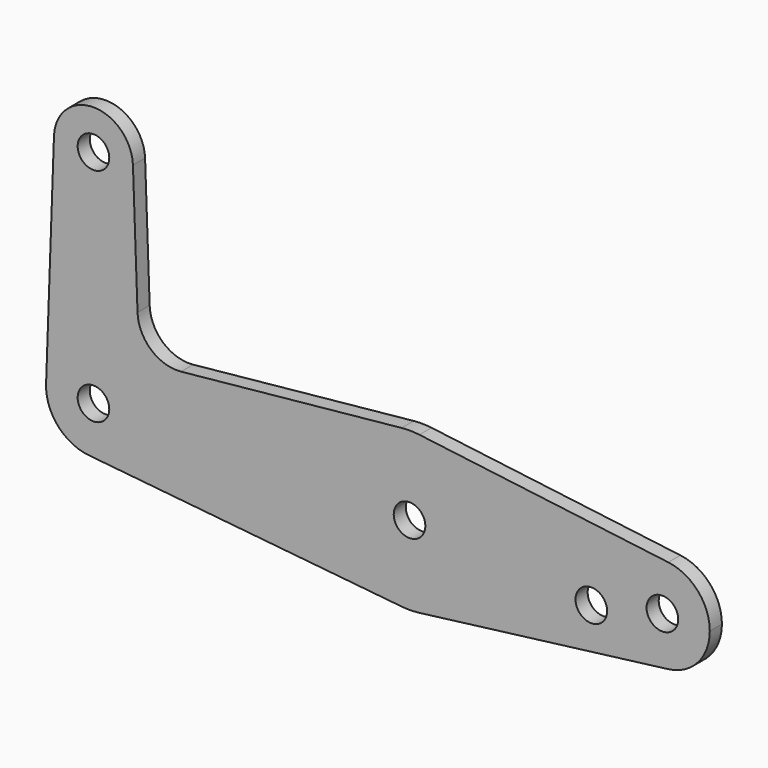
from build123d import *

# Parameters (mm, degrees)
F0_R     = 3.175
F1_DEPTH = 3.048


with BuildPart() as f1:
    # F0 (on Front) → F1 (new body)
    with BuildSketch(Plane.XZ):
        with BuildLine():
            ThreePointArc((-9.5189234376, 0.3401787603), (-7.1769199712, -6.2623833104), (-0.9525, -9.4772553384))
            ThreePointArc((-0.9525, -9.4772553384), (6.3895642457, -7.063929059), (9.525, 0))
            ThreePointArc((9.525, 0), (0.1701165142, 9.5234807382), (-9.5189234376, 0.3401787603))
        make_face()
        Circle(F0_R, mode=Mode.SUBTRACT)
        with BuildLine():
            ThreePointArc((9.525, 0), (6.3895642457, -7.063929059), (-0.9525, -9.4772553384))
            Line((-0.9525, -9.4772553384), (61.9125, -15.7954255641))
            ThreePointArc((61.9125, -15.7954255641), (51.7267849017, -10.6492737428), (47.625, 0))
            Line((47.625, 0), (9.525, 0))
        make_face()
        with BuildLine():
            ThreePointArc((-9.5189234376, 0.3401787603), (0.1701165142, 9.5234807382), (9.525, 0))
            Line((9.525, 0), (47.625, 0))
            ThreePointArc((47.625, 0), (51.7267849017, 10.6492737428), (61.9125, 15.7954255641))
            Line((61.9125, 15.7954255641), (17.5933818124, 11.3411865923))
            ThreePointArc((17.5933818124, 11.3411865923), (11.5713591498, 13.2611998974), (8.8532337108, 18.9676000005))
            Line((8.8532337108, 18.9676000005), (7.9324362036, 44.7334821429))
            ThreePointArc((7.9324362036, 44.7334821429), (7.9362339499, 44.5917636831), (7.9375, 44.45))
            ThreePointArc((7.9375, 44.45), (-0.1417636831, 36.5137660501), (-7.9324362036, 44.7334821429))
            Line((-7.9324362036, 44.7334821429), (-9.5189234376, 0.3401787603))
        make_face()
        with BuildLine():
            ThreePointArc((47.625, 0), (51.7267849017, -10.6492737428), (61.9125, -15.7954255641))
            ThreePointArc((61.9125, -15.7954255641), (63.6997054867, -15.8737438155), (65.484375, -15.7504882737))
            ThreePointArc((65.484375, -15.7504882737), (75.40625, -10.5003255158), (79.375, 0))
            Line((79.375, 0), (66.675, 0))
            ThreePointArc((66.675, 0), (63.5, -3.175), (60.325, 0))
            Line((60.325, 0), (47.625, 0))
        make_face()
        with BuildLine():
            ThreePointArc((61.9125, 15.7954255641), (51.7267849017, 10.6492737428), (47.625, 0))
            Line((47.625, 0), (60.325, 0))
            ThreePointArc((60.325, 0), (63.5, 3.175), (66.675, 0))
            Line((66.675, 0), (79.375, 0))
            ThreePointArc((79.375, 0), (75.40625, 10.5003255158), (65.484375, 15.7504882737))
            ThreePointArc((65.484375, 15.7504882737), (63.6997054867, 15.8737438155), (61.9125, 15.7954255641))
        make_face()
        with BuildLine():
            ThreePointArc((7.9324362036, 44.7334821429), (0, 52.3875), (-7.9324362036, 44.7334821429))
            ThreePointArc((-7.9324362036, 44.7334821429), (-0.1417636831, 36.5137660501), (7.9375, 44.45))
            ThreePointArc((7.9375, 44.45), (7.9362339499, 44.5917636831), (7.9324362036, 44.7334821429))
        make_face()
        with Locations((0, 44.45)):
            Circle(F0_R, mode=Mode.SUBTRACT)
        with BuildLine():
            ThreePointArc((79.375, 0), (75.40625, -10.5003255158), (65.484375, -15.7504882737))
            Line((65.484375, -15.7504882737), (115.490625, -9.4502929642))
            ThreePointArc((115.490625, -9.4502929642), (107.9998046905, -7.14375), (104.775, 0))
            Line((104.775, 0), (100.0252, 0))
            Line((100.0252, 0), (79.375, 0))
        make_face()
        with BuildLine():
            ThreePointArc((103.2002, -3.175), (97.7801359697, -5.4200640303), (100.0252, 0))
            ThreePointArc((100.0252, 0), (102.2702640303, -0.9299359697), (103.2002, -3.175))
        make_face(mode=Mode.SUBTRACT)
        with BuildLine():
            ThreePointArc((65.484375, 15.7504882737), (75.40625, 10.5003255158), (79.375, 0))
            Line((79.375, 0), (100.0252, 0))
            Line((100.0252, 0), (104.775, 0))
            ThreePointArc((104.775, 0), (107.9998046905, 7.14375), (115.490625, 9.4502929642))
            Line((115.490625, 9.4502929642), (65.484375, 15.7504882737))
        make_face()
        with BuildLine():
            ThreePointArc((104.775, 0), (107.9998046905, -7.14375), (115.490625, -9.4502929642))
            ThreePointArc((115.490625, -9.4502929642), (121.44375, -6.3001953095), (123.825, 0))
            ThreePointArc((123.825, 0), (121.44375, 6.3001953095), (115.490625, 9.4502929642))
            ThreePointArc((115.490625, 9.4502929642), (107.9998046905, 7.14375), (104.775, 0))
        make_face()
        with BuildLine():
            ThreePointArc((117.475, 0), (114.3, -3.175), (111.125, 0))
            ThreePointArc((111.125, 0), (114.3, 3.175), (117.475, 0))
        make_face(mode=Mode.SUBTRACT)
    extrude(amount=F1_DEPTH)


solid = f1.part
